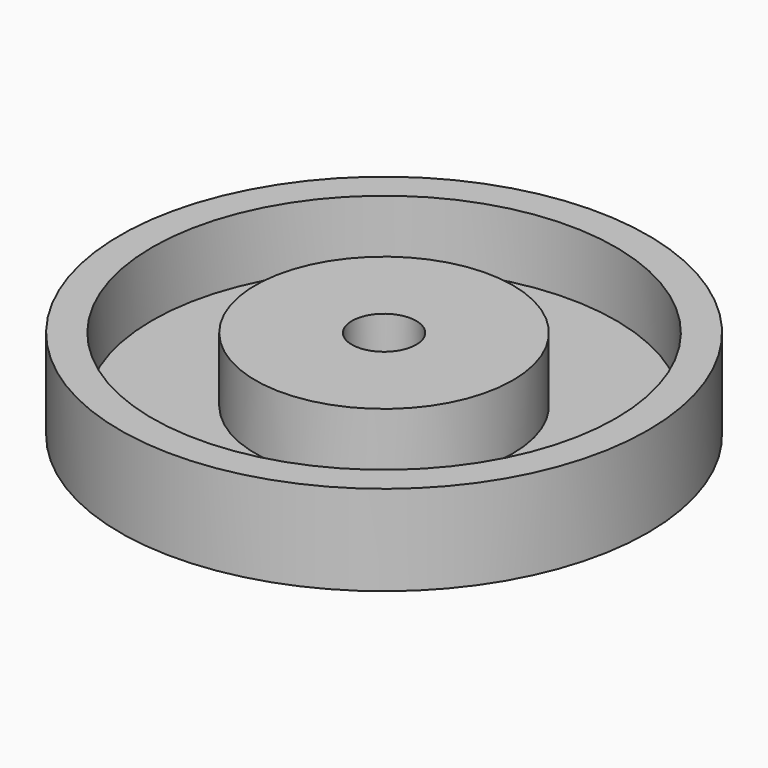
from build123d import *

# Parameters (mm, degrees)
F0_R     = 20.5
F1_DEPTH = 7
F2_R     = 18
F2_R_2   = 10
F3_DEPTH = 5
F4_R     = 2.5
F5_DEPTH = 7.001
F6_SIZE2 = 4
F6_SIZE  = 4.5


with BuildPart() as f1:
    # F0 (on Top) → F1 (new body)
    with BuildSketch(Plane.XY):
        Circle(F0_R)
    extrude(amount=F1_DEPTH)

    # F2 (on face) → F3 (cut)
    with BuildSketch(Plane.XY.offset(7)):
        Circle(F2_R)
        Circle(F2_R_2, mode=Mode.SUBTRACT)
    extrude(amount=-F3_DEPTH, mode=Mode.SUBTRACT)

    # F4 (on face) → F5 (cut, through all)
    with BuildSketch(Plane.XY.offset(7)):
        Circle(F4_R)
    extrude(amount=-F5_DEPTH, mode=Mode.SUBTRACT)

    # F6
    f6_edges = [f1.edges().sort_by_distance(p)[0] for p in [
        (-2.5, 0, 0),
    ]]
    chamfer(f6_edges, length=F6_SIZE, length2=F6_SIZE2)


solid = f1.part
